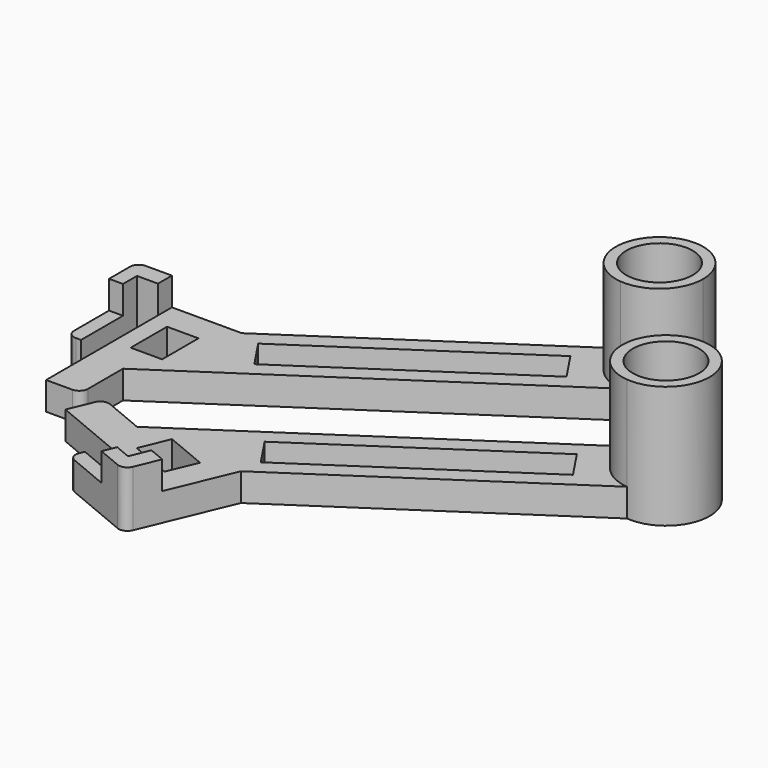
from build123d import *

# Parameters (mm, degrees)
F0_W     = 4
F0_H     = 15
F0_W_2   = 9
F0_H_2   = 13
F0_R     = 9.5
F1_DEPTH = 8
F2_DEPTH = 35
F3_DEPTH = 16
F4_R     = 2.5


with BuildPart() as f1:
    # F0 (on Top) → F1 (new body)
    with BuildSketch(Plane.XY):
        with Locations((-46.067412, 24.453461)):
            Rectangle(F0_W, F0_H)
        Polygon((-48.067412, 31.953461), (-44.067412, 31.953461), (-44.067412, 36.953461), (-38.067412, 36.953461), (-38.067412, 41.953461), (-48.067412, 41.953461), align=None)
        with BuildLine():
            Line((-38.067412, 41.953461), (-38.067412, 36.953461))
            Line((-38.067412, 36.953461), (-38.067412, -3.046539))
            Line((-38.067412, -3.046539), (-28.067412, -3.046539))
            Line((-28.067412, -3.046539), (-28.067412, 11.953461))
            Line((-28.067412, 11.953461), (64.770904, 73.845671))
            ThreePointArc((64.770904, 73.845671), (55.538246, 79.357233), (54.001673, 89.999517))
            Line((54.001673, 89.999517), (-18.067412, 41.953461))
            Line((-18.067412, 41.953461), (-38.067412, 41.953461))
        make_face()
        with Locations((-28.567412, 27.453461)):
            Rectangle(F0_W_2, F0_H_2, mode=Mode.SUBTRACT)
        Polygon((-6.52041, 31.975543), (-12.067412, 40.296046), (46.176109, 79.12506), (51.723111, 70.804557), align=None, mode=Mode.SUBTRACT)
        with BuildLine():
            ThreePointArc((78.438875, 86.290985), (67.814372, 98.649485), (54.001673, 89.999517))
            ThreePointArc((54.001673, 89.999517), (55.538246, 79.357233), (64.770904, 73.845671))
            ThreePointArc((64.770904, 73.845671), (74.354645, 77.048431), (78.438875, 86.290985))
        make_face()
        with Locations((65.938875, 86.290985)):
            Circle(F0_R, mode=Mode.SUBTRACT)
    extrude(amount=F1_DEPTH)

    # F0 (on Top) → F2 (join)
    with BuildSketch(Plane.XY):
        with BuildLine():
            ThreePointArc((78.438875, 86.290985), (67.814372, 98.649485), (54.001673, 89.999517))
            ThreePointArc((54.001673, 89.999517), (55.538246, 79.357233), (64.770904, 73.845671))
            ThreePointArc((64.770904, 73.845671), (74.354645, 77.048431), (78.438875, 86.290985))
        make_face()
        with Locations((65.938875, 86.290985)):
            Circle(F0_R, mode=Mode.SUBTRACT)
    extrude(amount=F2_DEPTH)

    # F0 (on Top) → F3 (join)
    with BuildSketch(Plane.XY):
        Polygon((-48.067412, 31.953461), (-44.067412, 31.953461), (-44.067412, 36.953461), (-38.067412, 36.953461), (-38.067412, 41.953461), (-48.067412, 41.953461), align=None)
    extrude(amount=F3_DEPTH)

    # F4
    f4_edges = [f1.edges().sort_by_distance(p)[0] for p in [
        (-28.067412, -3.046539, 4),
        (-48.067412, 16.953461, 4),
        (-48.067412, 41.953461, 8),
    ]]
    fillet(f4_edges, radius=F4_R)


with BuildPart() as f5_1:
    # F5: instance of F1
    add(f1.part.mirror(Plane(origin=(18.351746, 42.899566, 4), x_dir=(0.83205, 0.5547, 0), z_dir=(0.5547, -0.83205, 0))))


with BuildPart() as f5_1_1:
    # F6: moved
    add(f5_1.part.moved(Location((20, -20, 0))))


solid = Compound([f1.part, f5_1_1.part])
